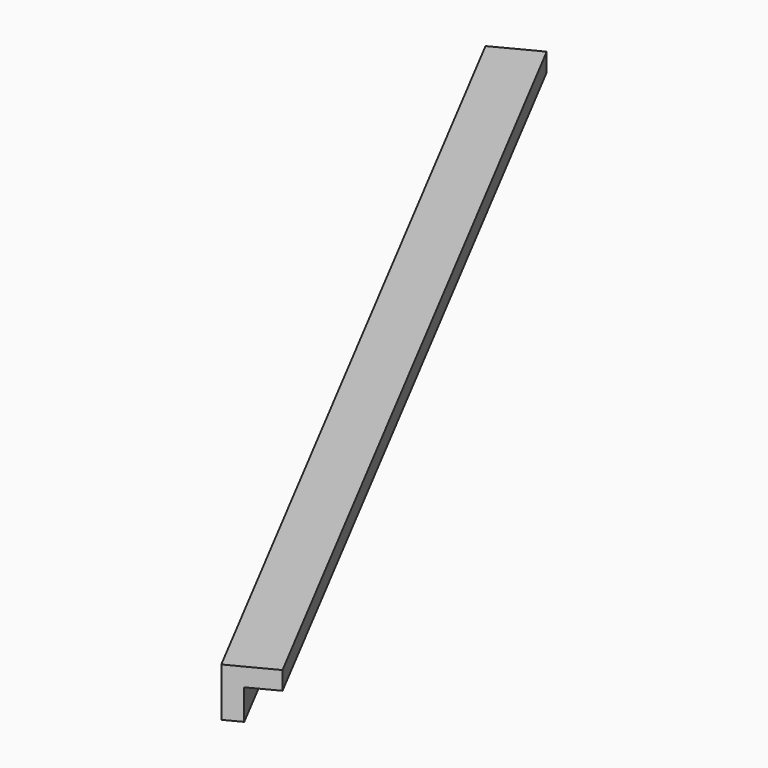
from build123d import *

# Parameters (mm, degrees)
BOX165_W               = 0.8
BOX165_H               = 17.5
BOX165_DEPTH           = 0.8
BOX166_W               = 0.8
BOX166_H               = 17.5
BOX166_DEPTH           = 0.8
CUT086_PLACEMENT_ANGLE = 207.5


with BuildPart() as cubo165:
    # Box165 → Box165 (new body)
    with BuildSketch(Plane.XY):
        with Locations((0.4, 8.75)):
            Rectangle(BOX165_W, BOX165_H)
    extrude(amount=BOX165_DEPTH)


with BuildPart() as obj1:
    # Box166 → Box166 (new body)
    with BuildSketch(Plane(origin=(0.3, 0, 0.3), x_dir=(1, 0, 0), z_dir=(0, 0, 1))):
        with Locations((0.4, 8.75)):
            Rectangle(BOX166_W, BOX166_H)
    extrude(amount=BOX166_DEPTH)

    # Cut086: cut Cubo165
    add(cubo165.part, mode=Mode.SUBTRACT)


with BuildPart() as obj1_1:
    # Cut086 placement: moved
    add(obj1.part.moved(Location((-203.6, 113.4, -1.45))).rotate(Axis((-203.6, 113.4, -1.45), (0, 0, 1)), CUT086_PLACEMENT_ANGLE))


solid = obj1_1.part
